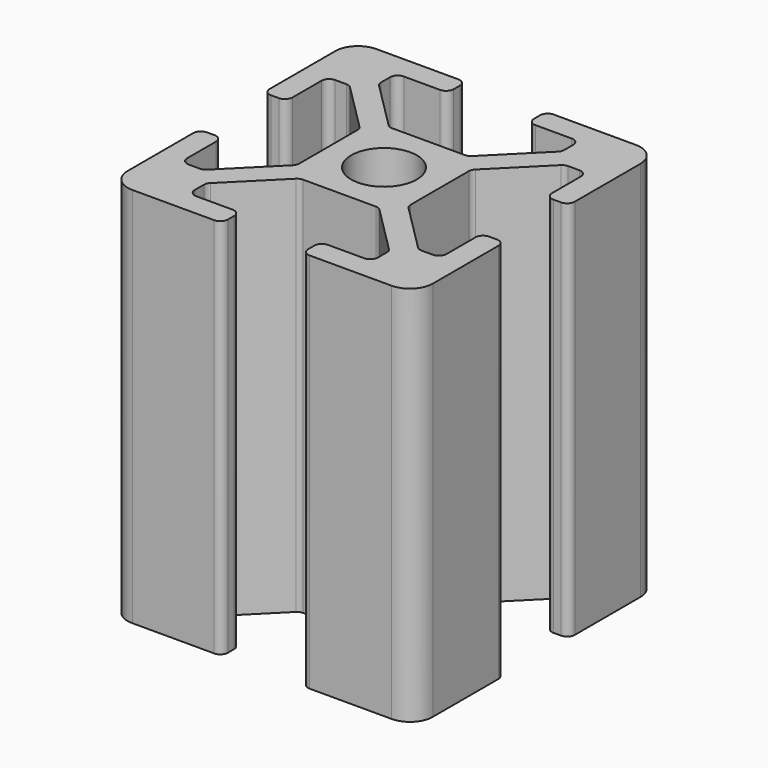
from build123d import *

# Parameters (mm, degrees)
F0_W     = 20
F0_H     = 20
F0_R     = 2.15
F2_DEPTH = 25
F3_DEPTH = 25.001
F4_R     = 1.5
F5_R     = 0.5


with BuildPart() as f2:
    # F0 (on Top) → F2 (new body)
    with BuildSketch(Plane.XY):
        Rectangle(F0_W, F0_H)
        Circle(F0_R, mode=Mode.SUBTRACT)
    extrude(amount=F2_DEPTH)

    # F1 (on face) → F3 (cut, through all)
    with BuildSketch(Plane.XY):
        Polygon((-8.5, 2.63), (-10, 2.63), (-10, -2.63), (-8.5, -2.63), (-8.5, -6), (-7.06066, -6), (-3.65, -2.58934), (-3.65, 2.58934), (-7.06066, 6), (-8.5, 6), align=None)
        Polygon((-2.63, -8.5), (-2.63, -10), (2.63, -10), (2.63, -8.5), (6, -8.5), (6, -7.06066), (2.58934, -3.65), (-2.58934, -3.65), (-6, -7.06066), (-6, -8.5), align=None)
        Polygon((10, -2.63), (10, 2.63), (8.5, 2.63), (8.5, 6), (7.06066, 6), (3.65, 2.58934), (3.65, -2.58934), (7.06066, -6), (8.5, -6), (8.5, -2.63), align=None)
        Polygon((2.63, 10), (-2.63, 10), (-2.63, 8.5), (-6, 8.5), (-6, 7.06066), (-2.58934, 3.65), (2.58934, 3.65), (6, 7.06066), (6, 8.5), (2.63, 8.5), align=None)
    extrude(amount=F3_DEPTH, mode=Mode.SUBTRACT)

    # F4
    f4_edges = [f2.edges().sort_by_distance(p)[0] for p in [
        (10, -10, 12.5),
        (-10, -10, 12.5),
        (10, 10, 12.5),
        (-10, 10, 12.5),
    ]]
    fillet(f4_edges, radius=F4_R)

    # F5
    f5_edges = [f2.edges().sort_by_distance(p)[0] for p in [
        (-2.63, -10, 12.5),
        (-10, 2.63, 12.5),
        (-2.63, 10, 12.5),
        (2.63, -10, 12.5),
        (10, 2.63, 12.5),
        (10, -2.63, 12.5),
        (-10, -2.63, 12.5),
        (2.63, 10, 12.5),
        (-6, -8.5, 12.5),
        (-2.63, -8.5, 12.5),
        (2.63, -8.5, 12.5),
        (-8.5, 2.63, 12.5),
        (-8.5, -2.63, 12.5),
        (8.5, -2.63, 12.5),
        (8.5, 2.63, 12.5),
        (2.63, 8.5, 12.5),
        (6, 8.5, 12.5),
        (8.5, 6, 12.5),
        (7.06066, 6, 12.5),
        (6, 7.06066, 12.5),
        (-2.58934, -3.65, 12.5),
        (2.58934, -3.65, 12.5),
        (3.65, 2.58934, 12.5),
        (3.65, -2.58934, 12.5),
        (-3.65, -2.58934, 12.5),
        (-3.65, 2.58934, 12.5),
        (2.58934, 3.65, 12.5),
        (-2.58934, 3.65, 12.5),
        (-6, 8.5, 12.5),
        (-6, 7.06066, 12.5),
        (-2.63, 8.5, 12.5),
        (8.5, -6, 12.5),
        (7.06066, -6, 12.5),
        (-8.5, -6, 12.5),
        (-7.06066, -6, 12.5),
        (-6, -7.06066, 12.5),
        (6, -7.06066, 12.5),
        (6, -8.5, 12.5),
        (-8.5, 6, 12.5),
        (-7.06066, 6, 12.5),
    ]]
    fillet(f5_edges, radius=F5_R)


solid = f2.part
